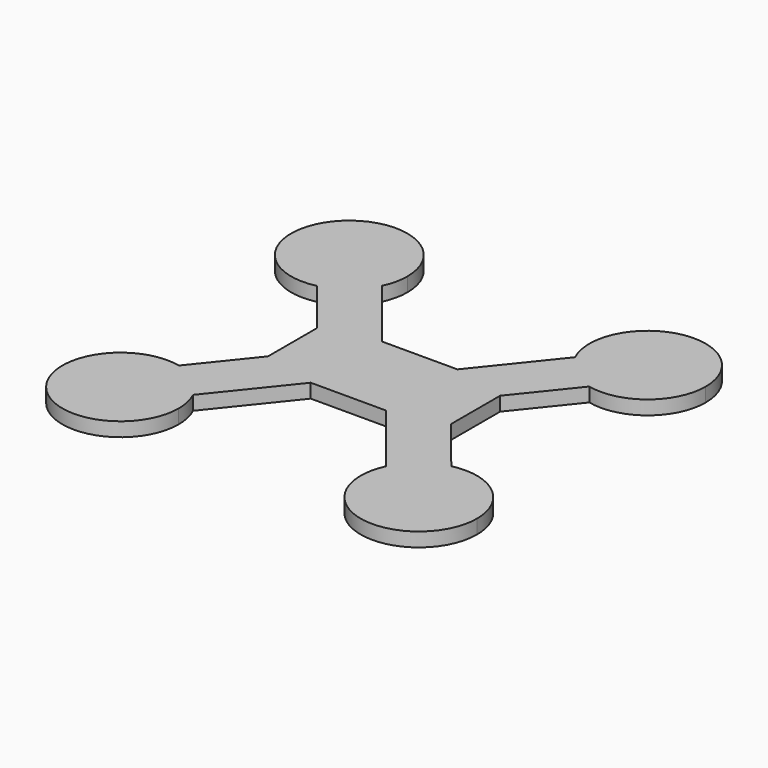
from build123d import *

# Parameters (mm, degrees)
F0_W     = 11.5173384978
F0_H     = 13.0775373821
F0_W_2   = 16.1038693041
F0_H_2   = 2.9893541513
F1_DEPTH = 3


with BuildPart() as f1:
    # F0 (on Top) → F1 (new body)
    with BuildSketch(Plane.XY):
        with BuildLine():
            Line((-27.644963935, 33.9523106813), (-20.6479323776, 25.2299834391))
            ThreePointArc((-20.6479323776, 25.2299834391), (-19.752349447, 27.8264836408), (-19.4488823526, 30.5562803009))
            ThreePointArc((-19.4488823526, 30.5562803009), (-41.5954351034, 38.3068214365), (-29.1147480721, 18.4379226783))
            Line((-29.1147480721, 18.4379226783), (-36.1117796295, 27.1602499205))
            Line((-36.1117796295, 27.1602499205), (-27.644963935, 33.9523106813))
        make_face()
        with BuildLine():
            ThreePointArc((-29.1147480721, 18.4379226783), (-24.1007453474, 20.8608827061), (-20.6479323776, 25.2299834391))
            Line((-20.6479323776, 25.2299834391), (-27.644963935, 33.9523106813))
            Line((-27.644963935, 33.9523106813), (-36.1117796295, 27.1602499205))
            Line((-36.1117796295, 27.1602499205), (-29.1147480721, 18.4379226783))
        make_face()
        with BuildLine():
            Line((-19.5692731498, 6.5387686911), (-8.051934652, 9.5281228423))
            Line((-8.051934652, 9.5281228423), (-20.6479323776, 25.2299834391))
            ThreePointArc((-20.6479323776, 25.2299834391), (-24.1007453474, 20.8608827061), (-29.1147480721, 18.4379226783))
            Line((-29.1147480721, 18.4379226783), (-19.5692731498, 6.5387686911))
        make_face()
        with BuildLine():
            ThreePointArc((44.3078612119, 30.5562803009), (29.1485751221, 42.6823026363), (20.6479323776, 25.2299834391))
            Line((20.6479323776, 25.2299834391), (27.644963935, 33.9523106813))
            Line((27.644963935, 33.9523106813), (36.1117796295, 27.1602499205))
            Line((36.1117796295, 27.1602499205), (29.1147480721, 18.4379226783))
            ThreePointArc((29.1147480721, 18.4379226783), (39.6289129179, 20.8392169798), (44.3078612119, 30.5562803009))
        make_face()
        with BuildLine():
            Line((27.644963935, 33.9523106813), (20.6479323776, 25.2299834391))
            ThreePointArc((20.6479323776, 25.2299834391), (24.1007453474, 20.8608827061), (29.1147480721, 18.4379226783))
            Line((29.1147480721, 18.4379226783), (36.1117796295, 27.1602499205))
            Line((36.1117796295, 27.1602499205), (27.644963935, 33.9523106813))
        make_face()
        with BuildLine():
            Line((20.6479323776, 25.2299834391), (8.051934652, 9.5281228423))
            Line((8.051934652, 9.5281228423), (19.5692731498, 6.5387686911))
            Line((19.5692731498, 6.5387686911), (29.1147480721, 18.4379226783))
            ThreePointArc((29.1147480721, 18.4379226783), (24.1007453474, 20.8608827061), (20.6479323776, 25.2299834391))
        make_face()
        with BuildLine():
            ThreePointArc((44.3078612119, -30.5562803009), (39.6289129179, -20.8392169798), (29.1147480721, -18.4379226783))
            Line((29.1147480721, -18.4379226783), (36.1117796295, -27.1602499205))
            Line((36.1117796295, -27.1602499205), (27.644963935, -33.9523106813))
            Line((27.644963935, -33.9523106813), (20.6479323776, -25.2299834391))
            ThreePointArc((20.6479323776, -25.2299834391), (29.1485751221, -42.6823026363), (44.3078612119, -30.5562803009))
        make_face()
        with BuildLine():
            Line((36.1117796295, -27.1602499205), (29.1147480721, -18.4379226783))
            ThreePointArc((29.1147480721, -18.4379226783), (24.1007453474, -20.8608827061), (20.6479323776, -25.2299834391))
            Line((20.6479323776, -25.2299834391), (27.644963935, -33.9523106813))
            Line((27.644963935, -33.9523106813), (36.1117796295, -27.1602499205))
        make_face()
        with BuildLine():
            Line((29.1147480721, -18.4379226783), (19.5692731498, -6.5387686911))
            Line((19.5692731498, -6.5387686911), (8.051934652, -9.5281228423))
            Line((8.051934652, -9.5281228423), (20.6479323776, -25.2299834391))
            ThreePointArc((20.6479323776, -25.2299834391), (24.1007453474, -20.8608827061), (29.1147480721, -18.4379226783))
        make_face()
        with BuildLine():
            Line((-36.1117796295, -27.1602499205), (-29.1147480721, -18.4379226783))
            ThreePointArc((-29.1147480721, -18.4379226783), (-41.5954351034, -38.3068214365), (-19.4488823526, -30.5562803009))
            ThreePointArc((-19.4488823526, -30.5562803009), (-19.752349447, -27.8264836408), (-20.6479323776, -25.2299834391))
            Line((-20.6479323776, -25.2299834391), (-27.644963935, -33.9523106813))
            Line((-27.644963935, -33.9523106813), (-36.1117796295, -27.1602499205))
        make_face()
        with BuildLine():
            ThreePointArc((-20.6479323776, -25.2299834391), (-24.1007453474, -20.8608827061), (-29.1147480721, -18.4379226783))
            Line((-29.1147480721, -18.4379226783), (-36.1117796295, -27.1602499205))
            Line((-36.1117796295, -27.1602499205), (-27.644963935, -33.9523106813))
            Line((-27.644963935, -33.9523106813), (-20.6479323776, -25.2299834391))
        make_face()
        with BuildLine():
            Line((-8.051934652, -9.5281228423), (-19.5692731498, -6.5387686911))
            Line((-19.5692731498, -6.5387686911), (-29.1147480721, -18.4379226783))
            ThreePointArc((-29.1147480721, -18.4379226783), (-24.1007453474, -20.8608827061), (-20.6479323776, -25.2299834391))
            Line((-20.6479323776, -25.2299834391), (-8.051934652, -9.5281228423))
        make_face()
        with Locations((-13.8106039009, 0)):
            Rectangle(F0_W, F0_H)
        Rectangle(F0_W_2, F0_H)
        with Locations((13.8106039009, 0)):
            Rectangle(F0_W, F0_H)
        with Locations((0, -8.0334457667)):
            Rectangle(F0_W_2, F0_H_2)
        with Locations((0, 8.0334457667)):
            Rectangle(F0_W_2, F0_H_2)
        Polygon((-8.051934652, 6.5387686911), (-8.051934652, 9.5281228423), (-19.5692731498, 6.5387686911), align=None)
        Polygon((-8.051934652, -6.5387686911), (-19.5692731498, -6.5387686911), (-8.051934652, -9.5281228423), align=None)
        Polygon((8.051934652, -9.5281228423), (19.5692731498, -6.5387686911), (8.051934652, -6.5387686911), align=None)
        Polygon((19.5692731498, 6.5387686911), (8.051934652, 9.5281228423), (8.051934652, 6.5387686911), align=None)
    extrude(amount=F1_DEPTH)


solid = f1.part
